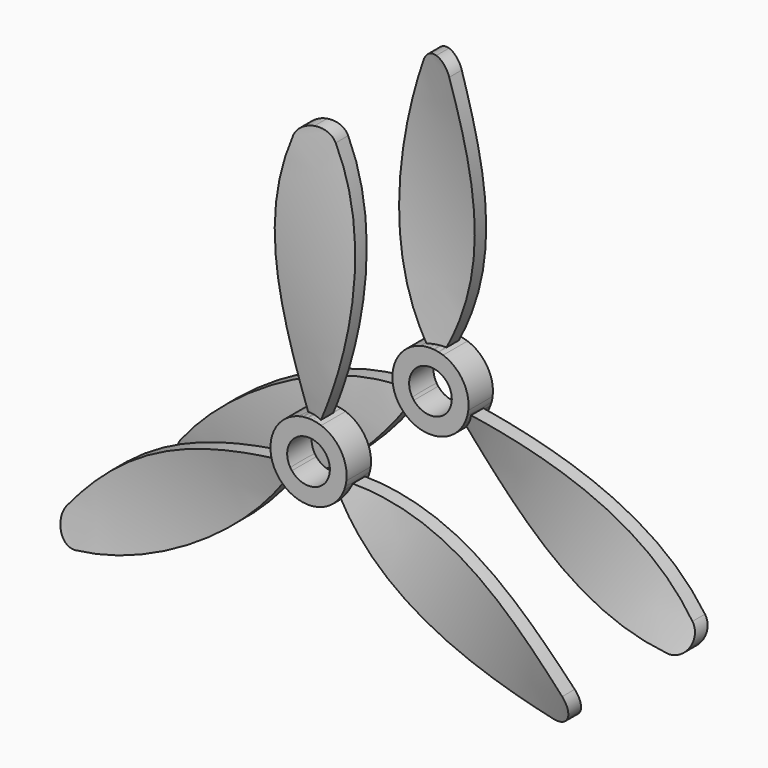
from build123d import *

# Parameters (mm, degrees)
F5_DEPTH = 10
F6_R     = 12.5
F6_R_2   = 7
F7_DEPTH = 5
F8_COUNT = 3


with BuildPart() as f3:
    # F2 (on offset) → F3 section 0
    with BuildSketch(Plane.XY.offset(100)):
        Polygon((24.347366, -6.201272), (-22.637265, 10.899735), (-24.347366, 6.201272), (22.637265, -10.899735), align=None)
    # F0 (on Top) → F3 section 1
    with BuildSketch(Plane.XY):
        Polygon((22.637265, 10.899735), (-24.347366, -6.201272), (-22.637265, -10.899735), (24.347366, 6.201272), align=None)
    loft()

    # F4 (on Front) → F5 (intersect, symmetric)
    with BuildSketch(Plane.XZ):
        with BuildLine():
            ThreePointArc((-5.581579, 92.201359), (-12.341375, 48.975016), (0, 7))
            ThreePointArc((0, 7), (12.341375, 48.975016), (5.581579, 92.201359))
            ThreePointArc((5.581579, 92.201359), (3.375785, 94.96025), (0, 96))
            ThreePointArc((0, 96), (-3.375785, 94.96025), (-5.581579, 92.201359))
        make_face()
    extrude(amount=F5_DEPTH, both=True, mode=Mode.INTERSECT)

    # F6 (on Front) → F7 (join, symmetric)
    with BuildSketch(Plane.XZ):
        Circle(F6_R)
        Circle(F6_R_2, mode=Mode.SUBTRACT)
    extrude(amount=F7_DEPTH, both=True)


with BuildPart() as f8_1:
    # F8: instance of F3
    add(f3.part.rotate(Axis((0, 0, 0), (0, -1, 0)), 1 * 360 / F8_COUNT))


with BuildPart() as f8_2:
    # F8: instance of F3
    add(f3.part.rotate(Axis((0, 0, 0), (0, -1, 0)), 2 * 360 / F8_COUNT))


with BuildPart() as f10_1:
    # F10: instance of F3
    add(f3.part.mirror(Plane.XZ.offset(25)))


with BuildPart() as f10_2:
    # F10: instance of F8_1
    add(f8_1.part.mirror(Plane.XZ.offset(25)))


with BuildPart() as f10_3:
    # F10: instance of F8_2
    add(f8_2.part.mirror(Plane.XZ.offset(25)))


solid = Compound([f3.part, f8_1.part, f8_2.part, f10_1.part, f10_2.part, f10_3.part])
